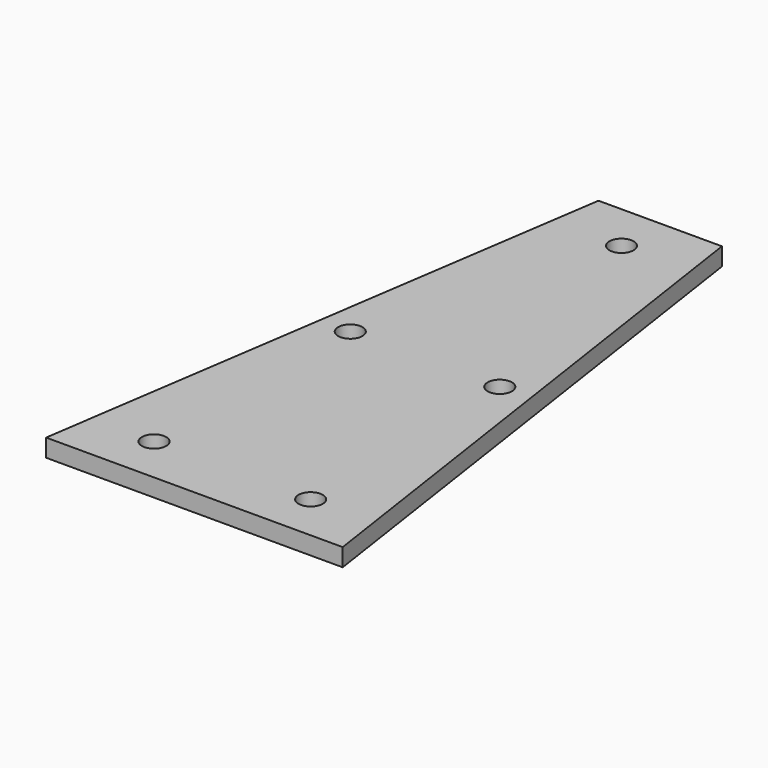
from build123d import *

# Parameters (mm, degrees)
F1_DEPTH = 15
F3_D     = 20.5


with BuildPart() as f1:
    # F0 (on Top) → F1 (new body)
    with BuildSketch(Plane.XY):
        Polygon((72.9636595731, 490.75858604), (0, 0), (125, 0), (125, 490.75858604), align=None)
        Polygon((125, 490.75858604), (125, 0), (250, 0), (177.0363404269, 490.75858604), align=None)
    extrude(amount=F1_DEPTH)

    # F3 (through all)
    with Locations(Plane(origin=(0, 0, 0), x_dir=(1, 0, 0), z_dir=(0, 0, -1))):
        with Locations((125, -450), (62, -243), (188, -243), (191, -40), (59, -40)):
            Hole(F3_D / 2)


solid = f1.part
